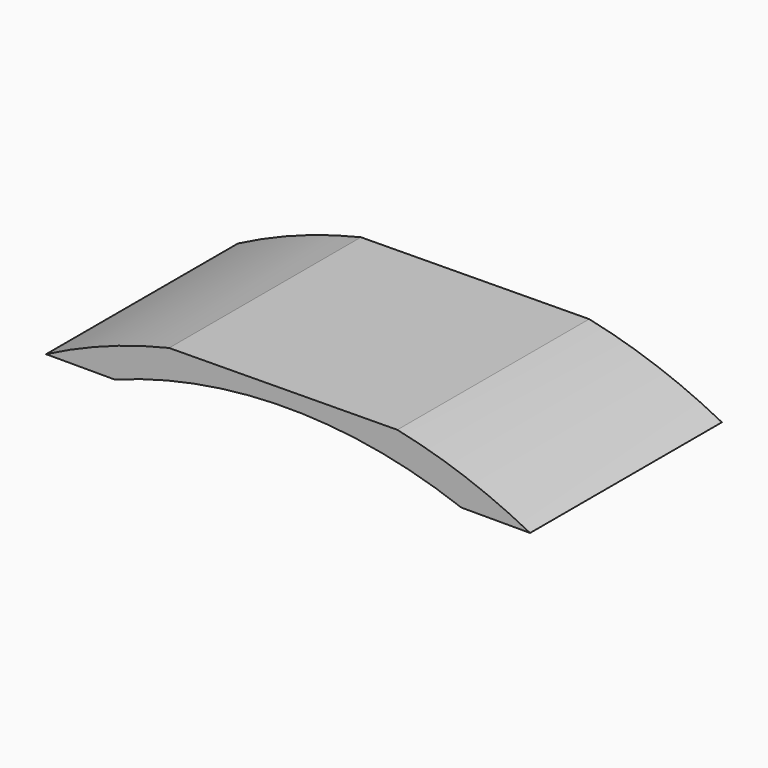
from build123d import *

# Parameters (mm, degrees)
F1_DEPTH = 60


with BuildPart() as f1:
    # F0 (on Front) → F1 (new body)
    with BuildSketch(Plane.XZ):
        with BuildLine():
            Line((27.5168354377, 18.6162740763), (44.7308354377, 18.6162740763))
            ThreePointArc((44.7308354377, 18.6162740763), (28.5229859425, 25.7014455813), (11.5096338783, 30.5429218081))
            Line((11.5096338783, 30.5429218081), (-45.5962255484, 30.0003966046))
            ThreePointArc((-45.5962255484, 30.0003966046), (-61.3470796197, 25.2745570274), (-76.3833767646, 18.6162740763))
            Line((-76.3833767646, 18.6162740763), (-59.1693767646, 18.6162740763))
            ThreePointArc((-59.1693767646, 18.6162740763), (-15.8262706635, 26.4210925339), (27.5168354377, 18.6162740763))
        make_face()
    extrude(amount=F1_DEPTH)


solid = f1.part
